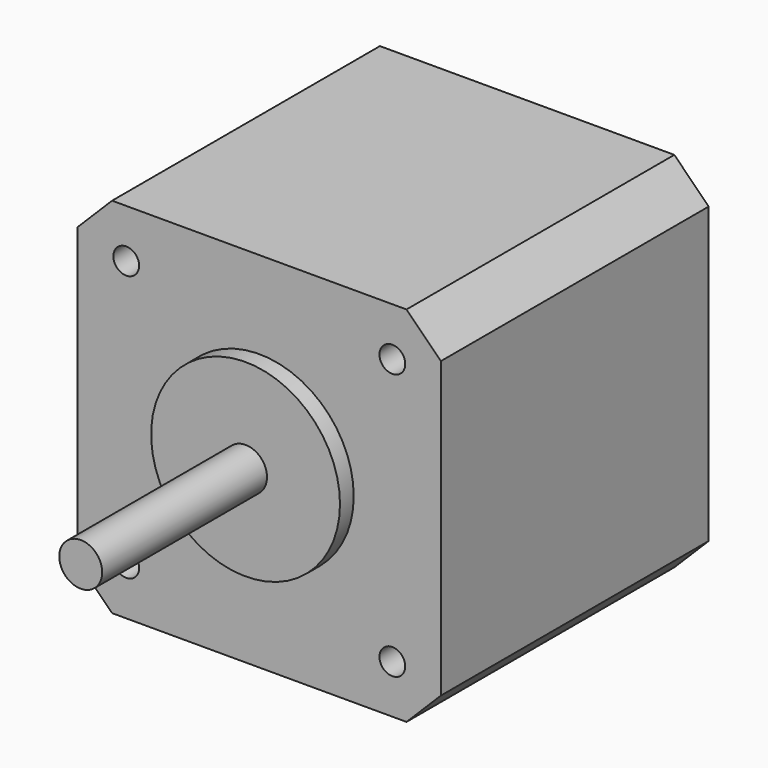
from build123d import *

# Parameters (mm, degrees)
BOX_W        = 42.3
BOX_H        = 39
BOX_DEPTH    = 42.3
CHAMFER_SIZE = 4
SKETCH002_R  = 1.5
POCKET_DEPTH = 5
SKETCH001_R  = 11
PAD001_DEPTH = 2
SKETCH_R     = 2.5
PAD_DEPTH    = 24


with BuildPart() as part:
    # Box → Box (new body)
    with BuildSketch(Plane.XY):
        with Locations((21.15, 19.5)):
            Rectangle(BOX_W, BOX_H)
    extrude(amount=BOX_DEPTH)

    # Chamfer
    chamfer_edges = [part.edges().sort_by_distance(p)[0] for p in [
        (42.3, 19.5, 0),
        (42.3, 19.5, 42.3),
        (0, 19.5, 42.3),
        (0, 19.5, 0),
    ]]
    chamfer(chamfer_edges, length=CHAMFER_SIZE)

    # Sketch002 → Pocket (cut)
    with BuildSketch(Plane.XZ):
        with Locations((5.65, 36.65)):
            Circle(SKETCH002_R)
        with Locations((36.65, 36.65)):
            Circle(SKETCH002_R)
        with Locations((5.65, 5.65)):
            Circle(SKETCH002_R)
        with Locations((36.65, 5.65)):
            Circle(SKETCH002_R)
    extrude(amount=-POCKET_DEPTH, mode=Mode.SUBTRACT)

    # Sketch001 → Pad001 (new body)
    with BuildSketch(Plane.XZ):
        with Locations((21.15, 21.15)):
            Circle(SKETCH001_R)
    extrude(amount=PAD001_DEPTH)

    # Sketch → Pad (new body)
    with BuildSketch(Plane.XZ.offset(2)):
        with Locations((21.15, 21.15)):
            Circle(SKETCH_R)
    extrude(amount=PAD_DEPTH)


solid = part.part
